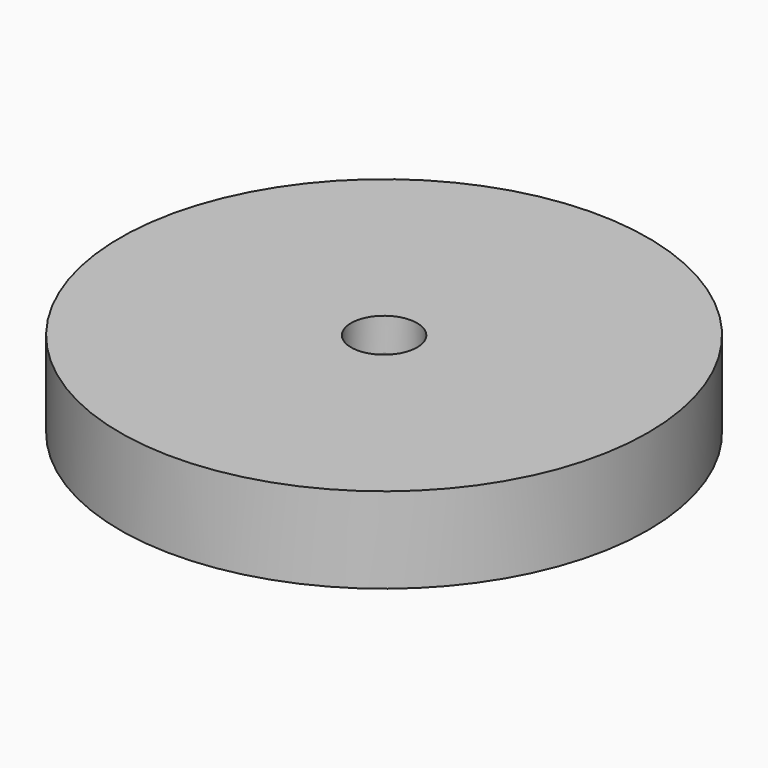
from build123d import *

# Parameters (mm, degrees)
F0_R     = 40
F0_R_2   = 10
F0_R_3   = 5
F1_DEPTH = 5
F2_DEPTH = 8


with BuildPart() as f1:
    # F0 (on Top) → F1 (new body)
    with BuildSketch(Plane.XY):
        Circle(F0_R)
        with Locations((-25, 0)):
            Circle(F0_R_2, mode=Mode.SUBTRACT)
        Circle(F0_R_3, mode=Mode.SUBTRACT)
        with Locations((-25, 0)):
            Circle(F0_R_2)
    extrude(amount=F1_DEPTH)

    # F0 (on Top) → F2 (join)
    with BuildSketch(Plane.XY):
        Circle(F0_R)
        with Locations((-25, 0)):
            Circle(F0_R_2, mode=Mode.SUBTRACT)
        Circle(F0_R_3, mode=Mode.SUBTRACT)
    extrude(amount=-F2_DEPTH)


solid = f1.part
